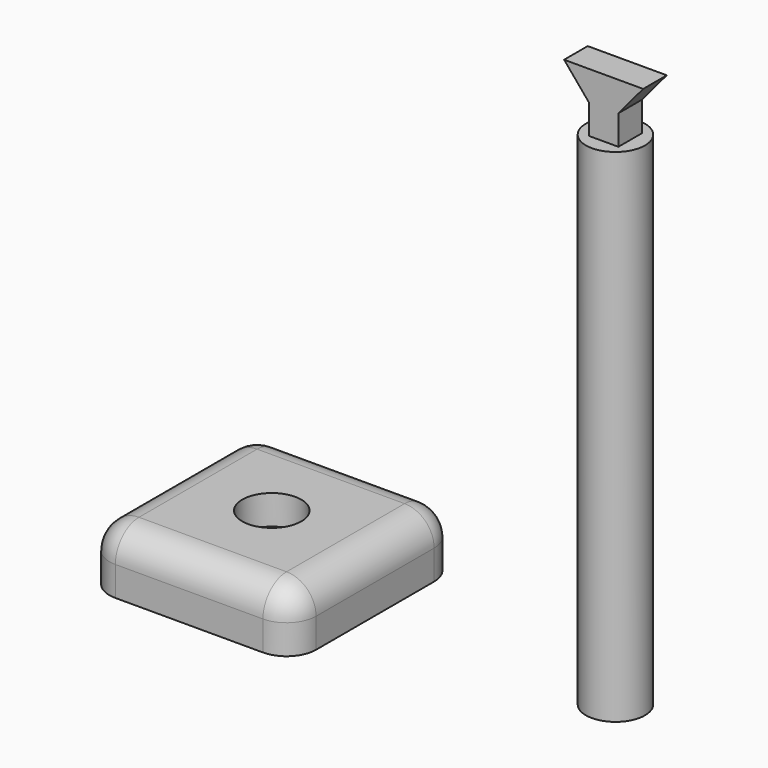
from build123d import *

# Parameters (mm, degrees)
F0_W     = 35
F0_H     = 35
F1_DEPTH = 10
F2_R     = 5
F3_R     = 5
F4_DEPTH = 5
F5_R     = 5
F6_DEPTH = 85
F7_W     = 5
F7_H     = 5
F8_DEPTH = 2.5


with BuildPart() as f1:
    # F0 (on Top) → F1 (new body)
    with BuildSketch(Plane.XY):
        Rectangle(F0_W, F0_H)
    extrude(amount=F1_DEPTH)

    # F2
    f2_edges = [f1.edges().sort_by_distance(p)[0] for p in [
        (0, -17.5, 10),
        (-17.5, 0, 10),
        (0, 17.5, 10),
        (17.5, 0, 10),
        (-17.5, -17.5, 5),
        (17.5, -17.5, 5),
        (17.5, 17.5, 5),
        (-17.5, 17.5, 5),
    ]]
    fillet(f2_edges, radius=F2_R)

    # F3 (on face) → F4 (cut)
    with BuildSketch(Plane.XY.offset(10)):
        Circle(F3_R)
    extrude(amount=-F4_DEPTH, mode=Mode.SUBTRACT)


with BuildPart() as f6:
    # F5 (on Top) → F6 (new body)
    with BuildSketch(Plane.XY):
        with Locations((58.220385, 0)):
            Circle(F5_R)
    extrude(amount=F6_DEPTH)

    # F7 (on Front) → F8 (join, symmetric)
    with BuildSketch(Plane.XZ):
        Polygon((55.720385, 90), (60.720385, 90), (64.915883, 95), (51.524887, 95), align=None)
        with Locations((58.220385, 87.5)):
            Rectangle(F7_W, F7_H)
    extrude(amount=F8_DEPTH, both=True)


solid = Compound([f1.part, f6.part])
